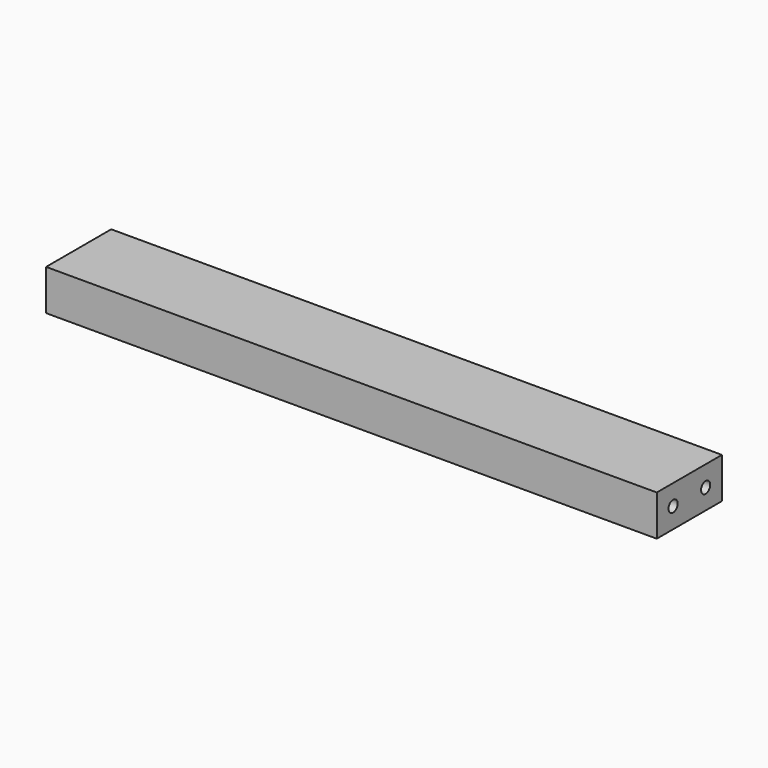
from build123d import *

# Parameters (mm, degrees)
F0_W     = 150
F0_H     = 20
F1_DEPTH = 10
F3_D     = 2.8
F3_DEPTH = 7
F3_TIP   = 0.8412048666
F5_D     = 2.8
F5_DEPTH = 7
F5_TIP   = 0.8412048666


with BuildPart() as f1:
    # F0 (on Top) → F1 (new body)
    with BuildSketch(Plane.XY):
        Rectangle(F0_W, F0_H)
    extrude(amount=F1_DEPTH)

    # F3
    with Locations(Plane(origin=(-75, 0, 0), x_dir=(0, -1, 0), z_dir=(-1, 0, 0))):
        with Locations((-5, 5), (5, 5)):
            Hole(F3_D / 2, depth=F3_DEPTH)
            with Locations((0, 0, -(F3_DEPTH + F3_TIP / 2))):  # 118° drill point
                Cone(0, F3_D / 2, F3_TIP, mode=Mode.SUBTRACT)

    # F5
    with Locations(Plane.YZ.offset(75)):
        with Locations((-5, 5), (5, 5)):
            Hole(F5_D / 2, depth=F5_DEPTH)
            with Locations((0, 0, -(F5_DEPTH + F5_TIP / 2))):  # 118° drill point
                Cone(0, F5_D / 2, F5_TIP, mode=Mode.SUBTRACT)


solid = f1.part
